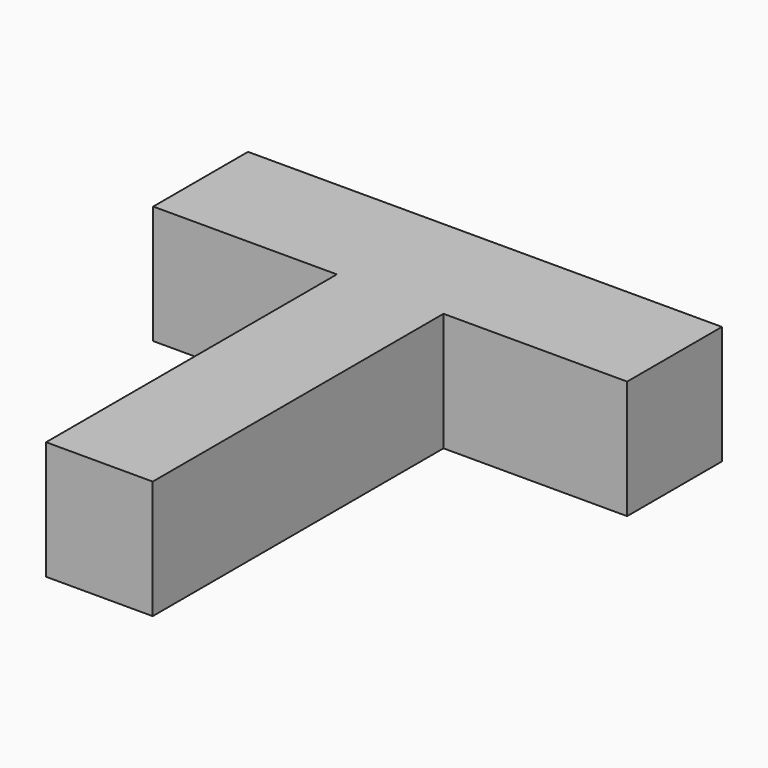
from build123d import *

# Parameters (mm, degrees)
F0_W     = 22.86
F0_H     = 77.926236
F0_H_2   = 25.4
F0_W_2   = 39.37
F1_DEPTH = 25.4


with BuildPart() as f1:
    # F0 (on Top) → F1 (new body)
    with BuildSketch(Plane.XY):
        with Locations((0, -12.7)):
            Rectangle(F0_W, F0_H)
        with Locations((0, 38.963118)):
            Rectangle(F0_W, F0_H_2)
        with Locations((31.115, 38.963118)):
            Rectangle(F0_W_2, F0_H_2)
        with Locations((-31.115, 38.963118)):
            Rectangle(F0_W_2, F0_H_2)
    extrude(amount=F1_DEPTH)


solid = f1.part
